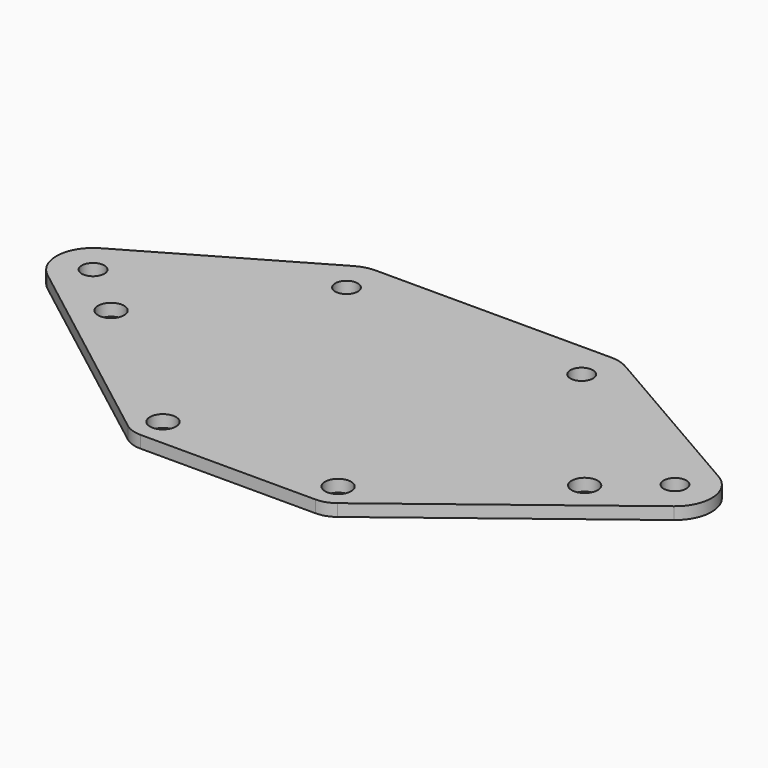
from build123d import *

# Parameters (mm, degrees)
F0_R     = 1.8288
F0_R_2   = 1.5875
F1_DEPTH = 1.70942


with BuildPart() as f1:
    # F0 (on Top) → F1 (new body)
    with BuildSketch(Plane.XY):
        with BuildLine():
            Line((16.542796, 28.167754), (-16.542796, 28.167754))
            ThreePointArc((-16.542796, 28.167754), (-17.87814, 27.991953), (-19.122483, 27.476529))
            Line((-19.122483, 27.476529), (-43.512482, 13.394956))
            ThreePointArc((-43.512482, 13.394956), (-46.081079, 9.264924), (-44.074702, 4.834427))
            Line((-44.074702, 4.834427), (-14.736982, -17.689484))
            ThreePointArc((-14.736982, -17.689484), (-13.596339, -18.299461), (-12.320131, -18.51025))
            Line((-12.320131, -18.51025), (12.320131, -18.51025))
            ThreePointArc((12.320131, -18.51025), (13.596339, -18.299461), (14.736982, -17.689484))
            Line((14.736982, -17.689484), (44.074702, 4.834427))
            ThreePointArc((44.074702, 4.834427), (46.081079, 9.264924), (43.512482, 13.394956))
            Line((43.512482, 13.394956), (19.122483, 27.476529))
            ThreePointArc((19.122483, 27.476529), (17.87814, 27.991953), (16.542796, 28.167754))
        make_face()
        with Locations((-12.320131, -14.5415)):
            Circle(F0_R, mode=Mode.SUBTRACT)
        with Locations((-33.310818, 2.574715)):
            Circle(F0_R, mode=Mode.SUBTRACT)
        with Locations((12.320131, -14.5415)):
            Circle(F0_R, mode=Mode.SUBTRACT)
        with Locations((33.310818, 2.574715)):
            Circle(F0_R, mode=Mode.SUBTRACT)
        with Locations((-40.932795, 8.926807)):
            Circle(F0_R_2, mode=Mode.SUBTRACT)
        with Locations((-16.542796, 23.008379)):
            Circle(F0_R_2, mode=Mode.SUBTRACT)
        with Locations((40.932795, 8.926807)):
            Circle(F0_R_2, mode=Mode.SUBTRACT)
        with Locations((16.542796, 23.008379)):
            Circle(F0_R_2, mode=Mode.SUBTRACT)
    extrude(amount=F1_DEPTH)


solid = f1.part
